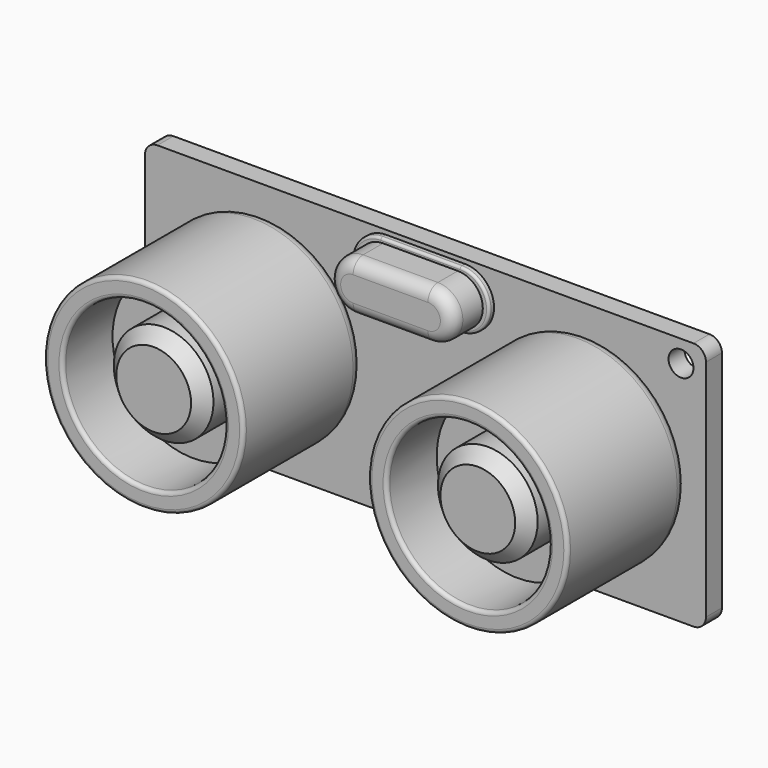
from build123d import *

# Parameters (mm, degrees)
SKETCH_W        = 45
SKETCH_H        = 20
SKETCH_R        = 1
PAD_DEPTH       = 1.6
FILLET_R        = 1
SKETCH001_R     = 8
PAD001_DEPTH    = 12
SKETCH002_R     = 6.5
POCKET_DEPTH    = 5
SKETCH003_R     = 4
PAD002_DEPTH    = 4
FILLET001_R     = 1
FILLET002_R     = 0.3
CHAMFER_SIZE    = 1
SKETCH004_R     = 8
PAD003_DEPTH    = 12
SKETCH006_R     = 6.5
POCKET001_DEPTH = 5
SKETCH005_R     = 4
PAD004_DEPTH    = 4
FILLET003_R     = 1
FILLET004_R     = 0.3
CHAMFER001_SIZE = 1
PAD005_DEPTH    = 0.5
PAD006_DEPTH    = 3
FILLET005_R     = 0.2
FILLET006_R     = 1
SKETCH009_W     = 10.16
SKETCH009_H     = 2.54
PAD007_DEPTH    = 0.1
CHAMFER002_SIZE = 0.3
SKETCH010_W     = 1
SKETCH010_H     = 1
PAD008_DEPTH    = 10
SKETCH011_W     = 10.16
SKETCH011_H     = 2.54
PAD009_DEPTH    = 2.54
CHAMFER003_SIZE = 0.3


with BuildPart() as body:
    # Sketch → Pad (new body)
    with BuildSketch(Plane.XZ):
        Rectangle(SKETCH_W, SKETCH_H)
        with Locations((20.5, 8.25)):
            Circle(SKETCH_R, mode=Mode.SUBTRACT)
        with Locations((-20.5, -8.25)):
            Circle(SKETCH_R, mode=Mode.SUBTRACT)
    extrude(amount=PAD_DEPTH)

    # Fillet
    fillet_edges = [body.edges().sort_by_distance(p)[0] for p in [
        (22.5, -0.8, 10),
        (-22.5, -0.8, 10),
        (-22.5, -0.8, -10),
        (22.5, -0.8, -10),
    ]]
    fillet(fillet_edges, radius=FILLET_R)


with BuildPart() as body001:
    # Sketch001 → Pad001 (new body)
    with BuildSketch(Plane.XZ.offset(1.6)):
        with Locations((13, 0)):
            Circle(SKETCH001_R)
    extrude(amount=PAD001_DEPTH)

    # Sketch002 (on Face3 of Pad001) → Pocket (cut)
    with BuildSketch(Plane.XZ.offset(13.6)):
        with Locations((13, 0)):
            Circle(SKETCH002_R)
    extrude(amount=-POCKET_DEPTH, mode=Mode.SUBTRACT)

    # Sketch003 (on Face5 of Pocket) → Pad002 (join)
    with BuildSketch(Plane.XZ.offset(8.6)):
        with Locations((13, 0)):
            Circle(SKETCH003_R)
    extrude(amount=PAD002_DEPTH)

    # Fillet001
    fillet001_edges = [body001.edges().sort_by_distance(p)[0] for p in [
        (5, -1.6, 0),
    ]]
    fillet(fillet001_edges, radius=FILLET001_R)

    # Fillet002
    fillet002_edges = [body001.edges().sort_by_distance(p)[0] for p in [
        (5, -13.6, 0),
        (6.5, -13.6, 0),
    ]]
    fillet(fillet002_edges, radius=FILLET002_R)

    # Chamfer
    chamfer_edges = [body001.edges().sort_by_distance(p)[0] for p in [
        (9, -12.6, 0),
    ]]
    chamfer(chamfer_edges, length=CHAMFER_SIZE)


with BuildPart() as body002:
    # Sketch004 → Pad003 (new body)
    with BuildSketch(Plane.XZ.offset(1.6)):
        with Locations((13, 0)):
            Circle(SKETCH004_R)
    extrude(amount=PAD003_DEPTH)

    # Sketch006 (on Face3 of Pad003) → Pocket001 (cut)
    with BuildSketch(Plane.XZ.offset(13.6)):
        with Locations((13, 0)):
            Circle(SKETCH006_R)
    extrude(amount=-POCKET001_DEPTH, mode=Mode.SUBTRACT)

    # Sketch005 (on Face5 of Pocket001) → Pad004 (join)
    with BuildSketch(Plane.XZ.offset(8.6)):
        with Locations((13, 0)):
            Circle(SKETCH005_R)
    extrude(amount=PAD004_DEPTH)

    # Fillet003
    fillet003_edges = [body002.edges().sort_by_distance(p)[0] for p in [
        (5, -1.6, 0),
    ]]
    fillet(fillet003_edges, radius=FILLET003_R)

    # Fillet004
    fillet004_edges = [body002.edges().sort_by_distance(p)[0] for p in [
        (5, -13.6, 0),
        (6.5, -13.6, 0),
    ]]
    fillet(fillet004_edges, radius=FILLET004_R)

    # Chamfer001
    chamfer001_edges = [body002.edges().sort_by_distance(p)[0] for p in [
        (9, -12.6, 0),
    ]]
    chamfer(chamfer001_edges, length=CHAMFER001_SIZE)


with BuildPart() as body002_1:
    # Body002 placement: moved
    add(body002.part.moved(Location((-26, 0, 0))))


with BuildPart() as body003:
    # Sketch007 → Pad005 (new body)
    with BuildSketch(Plane.XZ.offset(1.6)):
        with BuildLine():
            ThreePointArc((-3.175, 9.65), (-5.5, 7.325), (-3.175, 5))
            Line((-3.175, 5), (3.175, 5))
            ThreePointArc((3.175, 5), (5.5, 7.325), (3.175, 9.65))
            Line((-3.175, 9.65), (3.175, 9.65))
        make_face()
    extrude(amount=PAD005_DEPTH)

    # Sketch008 (on Face6 of Pad005) → Pad006 (join)
    with BuildSketch(Plane.XZ.offset(2.1)):
        with BuildLine():
            ThreePointArc((-3, 9.3), (-5, 7.3), (-3, 5.3))
            Line((-3, 5.3), (3, 5.3))
            ThreePointArc((3, 5.3), (5, 7.3), (3, 9.3))
            Line((-3, 9.3), (3, 9.3))
        make_face()
    extrude(amount=PAD006_DEPTH)

    # Fillet005
    fillet005_edges = [body003.edges().sort_by_distance(p)[0] for p in [
        (0, -2.1, 9.65),
        (5.5, -2.1, 7.325),
        (-5.5, -2.1, 7.325),
        (0, -2.1, 5),
    ]]
    fillet(fillet005_edges, radius=FILLET005_R)

    # Fillet006
    fillet006_edges = [body003.edges().sort_by_distance(p)[0] for p in [
        (0, -5.1, 5.3),
        (5, -5.1, 7.3),
        (0, -5.1, 9.3),
        (-5, -5.1, 7.3),
    ]]
    fillet(fillet006_edges, radius=FILLET006_R)


with BuildPart() as body004:
    # Sketch009 → Pad007 (new body)
    with BuildSketch(Plane(origin=(0, 0, 0), x_dir=(-1, 0, 0), z_dir=(0, 1, 0))):
        with Locations((0, -8.27)):
            Rectangle(SKETCH009_W, SKETCH009_H)
    extrude(amount=PAD007_DEPTH)

    # Chamfer002
    chamfer002_edges = [body004.edges().sort_by_distance(p)[0] for p in [
        (-5.08, 0.05, -7),
        (-5.08, 0.05, -9.54),
        (5.08, 0.05, -7),
        (5.08, 0.05, -9.54),
    ]]
    chamfer(chamfer002_edges, length=CHAMFER002_SIZE)

    # Sketch010 (on Face5 of Chamfer002) → Pad008 (join)
    with BuildSketch(Plane(origin=(0, 0.1, 0), x_dir=(-1, 0, 0), z_dir=(0, 1, 0))):
        with Locations((1.27, -8.27)):
            Rectangle(SKETCH010_W, SKETCH010_H)
        with Locations((3.81, -8.27)):
            Rectangle(SKETCH010_W, SKETCH010_H)
    pad008 = extrude(amount=PAD008_DEPTH)

    # Mirrored: Pad008 across YZ
    add(pad008.mirror(Plane.YZ))


with BuildPart() as body005:
    # Sketch011 → Pad009 (new body)
    with BuildSketch(Plane(origin=(0, 0.1, 0), x_dir=(-1, 0, 0), z_dir=(0, 1, 0))):
        with Locations((0, -8.27)):
            Rectangle(SKETCH011_W, SKETCH011_H)
    extrude(amount=PAD009_DEPTH)

    # Chamfer003
    chamfer003_edges = [body005.edges().sort_by_distance(p)[0] for p in [
        (-5.08, 1.37, -9.54),
        (-5.08, 1.37, -7),
        (5.08, 1.37, -7),
        (5.08, 1.37, -9.54),
    ]]
    chamfer(chamfer003_edges, length=CHAMFER003_SIZE)


solid = Compound([body.part, body001.part, body002_1.part, body003.part, body004.part, body005.part])
